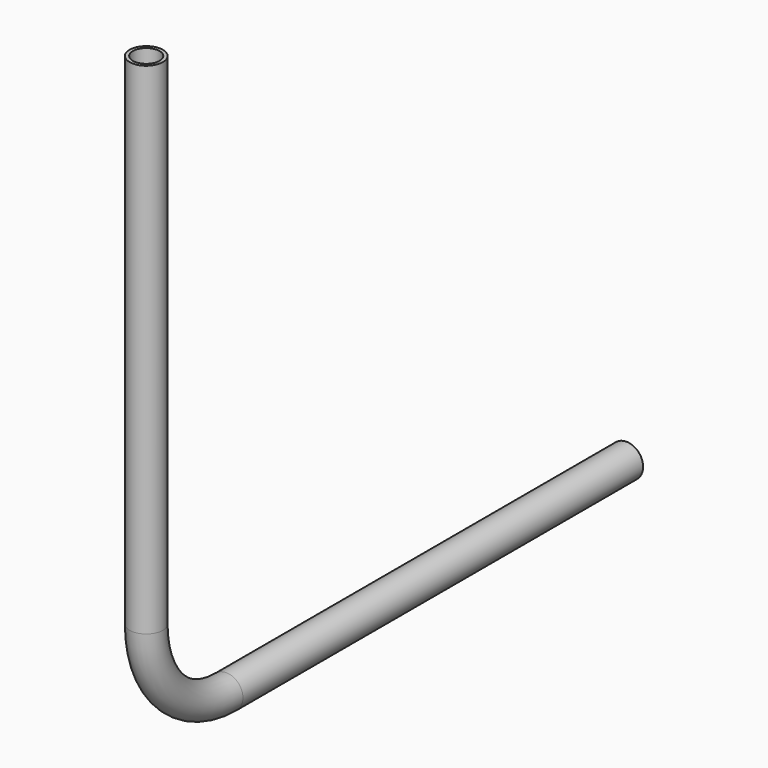
from build123d import *

# Parameters (mm, degrees)
F0_R     = 100
F0_R_2   = 80
F3_DEPTH = 3000
F4_DEPTH = 3000


with BuildPart() as f2:
    # F2: sweep along a path in F1
    with BuildLine(Plane.YZ) as f2_path:
        ThreePointArc((-600, 600), (-424.2640687119, 175.7359312881), (0, 0))
    # F0 (on Front) → F2 (sweep)
    with BuildSketch(Plane.XZ):
        Circle(F0_R)
        Circle(F0_R_2, mode=Mode.SUBTRACT)
    sweep(path=f2_path.line)

    # F3 (add): a face of the model
    f3_faces = [f2.faces().sort_by_distance(p)[0] for p in [
        (-97.1715728753, 0, 0),
    ]]
    extrude(f3_faces, amount=F3_DEPTH)

    # F4 (add): a face of the model
    f4_faces = [f2.faces().sort_by_distance(p)[0] for p in [
        (-97.1715728753, -600, 600),
    ]]
    extrude(f4_faces, amount=F4_DEPTH)


solid = f2.part
